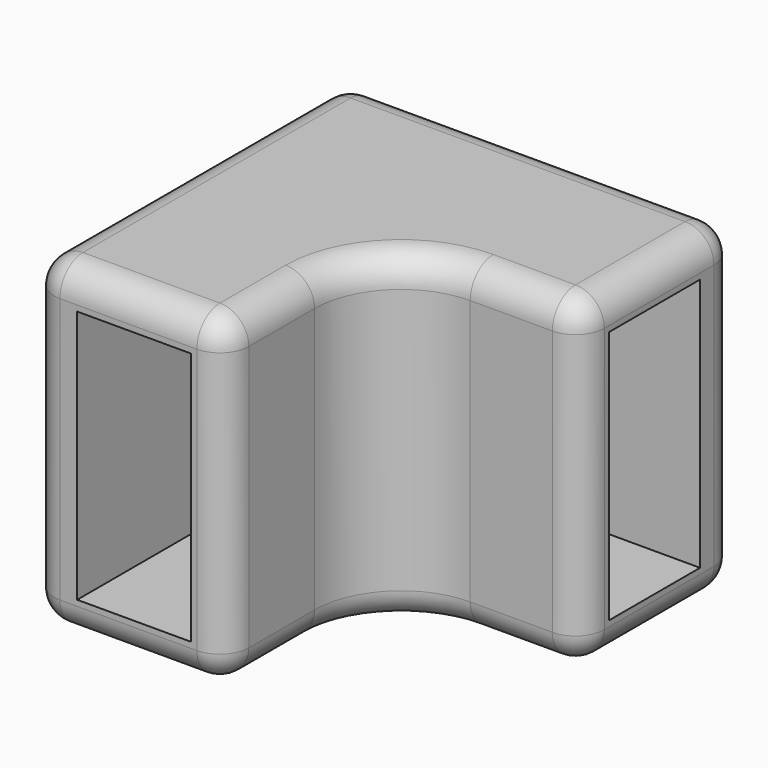
from build123d import *

# Parameters (mm, degrees)
F1_DEPTH             = 50
F1_DEPTH_BACK        = 6
F2_DEPTH             = 44
F5_D                 = 4.4958
F5_CSINK_D           = 9.1186
F5_CSINK_ANGLE       = 82
F5_ON_F3_D           = 4.4958
F5_ON_F3_CSINK_D     = 9.1186
F5_ON_F3_CSINK_ANGLE = 82
F6_R                 = 15
F7_R                 = 5


with BuildPart() as f1:
    # F0 (on Top) → F1 (new body, two sides)
    with BuildSketch(Plane.XY) as f1_sk:
        Polygon((-8, -60), (0, -60), (0, 0), (60, 0), (60, 8), (-8, 8), align=None)
        Polygon((19.75, -19.75), (19.75, -60), (25.75, -60), (25.75, -25.75), (60, -25.75), (60, -19.75), align=None)
        Polygon((0, 0), (0, -60), (19.75, -60), (19.75, -19.75), (60, -19.75), (60, 0), align=None)
    extrude(amount=F1_DEPTH)
    extrude(f1_sk.sketch, amount=-F1_DEPTH_BACK)

    # F0 (on Top) → F2 (cut)
    with BuildSketch(Plane.XY):
        Polygon((0, 0), (0, -60), (19.75, -60), (19.75, -19.75), (60, -19.75), (60, 0), align=None)
    extrude(amount=F2_DEPTH, mode=Mode.SUBTRACT)

    # F5 (through all)
    with Locations(Plane(origin=(-8, 0, 0), x_dir=(0, -1, 0), z_dir=(-1, 0, 0))):
        with Locations((8.875, 36), (8.875, 8)):
            CounterSinkHole(F5_D / 2, F5_CSINK_D / 2, counter_sink_angle=F5_CSINK_ANGLE)

    # F5 on F3 (through all)
    with Locations(Plane(origin=(0, 8, 0), x_dir=(-1, 0, 0), z_dir=(0, 1, 0))):
        with Locations((-9.875, 29), (-9.875, 15)):
            CounterSinkHole(F5_ON_F3_D / 2, F5_ON_F3_CSINK_D / 2, counter_sink_angle=F5_ON_F3_CSINK_ANGLE)

    # F6
    f6_edges = [f1.edges().sort_by_distance(p)[0] for p in [
        (25.75, -25.75, 22),
    ]]
    fillet(f6_edges, radius=F6_R)

    # F7
    f7_edges = [f1.edges().sort_by_distance(p)[0] for p in [
        (25.75, -50.375, 50),
        (30.143398, -30.143398, 50),
        (8.875, -60, 50),
        (50.375, -25.75, 50),
        (-8, -26, 50),
        (60, -8.875, 50),
        (26, 8, 50),
        (25.75, -50.375, -6),
        (30.143398, -30.143398, -6),
        (8.875, -60, -6),
        (50.375, -25.75, -6),
        (-8, -26, -6),
        (60, -8.875, -6),
        (26, 8, -6),
        (60, -25.75, 22),
        (60, 8, 22),
        (25.75, -60, 22),
        (-8, -60, 22),
        (-8, 8, 22),
    ]]
    fillet(f7_edges, radius=F7_R)


solid = f1.part
